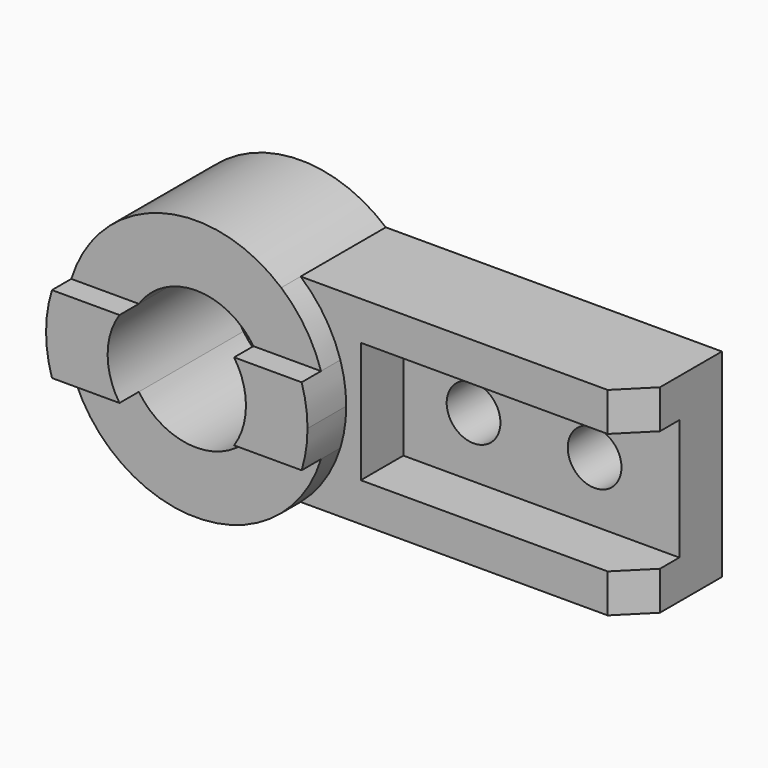
from build123d import *

# Parameters (mm, degrees)
F0_R     = 11.1
F1_DEPTH = 44
F2_DEPTH = 64
F4_W     = 22
F4_H     = 50
F5_DEPTH = 114
F6_DEPTH = 95.001
F8_DEPTH = 10


with BuildPart() as f1:
    # F0 (on Front) → F1 (new body)
    with BuildSketch(Plane.XZ):
        with BuildLine():
            ThreePointArc((51.5751878329, 57), (53.3903556037, 49.0913489921), (54, 41))
            ThreePointArc((54, 41), (53.3903556037, 32.9086510079), (51.5751878329, 25))
            ThreePointArc((51.5751878329, 25), (45.1247409006, 11.3392893097), (35.1425667816, 0))
            Line((35.1425667816, 0), (174, 0))
            Line((174, 0), (174, 82))
            Line((174, 82), (35.1425667816, 82))
            ThreePointArc((35.1425667816, 82), (45.1247409006, 70.6607106903), (51.5751878329, 57))
        make_face()
        with Locations((89, 41)):
            Circle(F0_R, mode=Mode.SUBTRACT)
        with Locations((139, 41)):
            Circle(F0_R, mode=Mode.SUBTRACT)
    extrude(amount=F1_DEPTH)

    # F0 (on Front) → F2 (join)
    with BuildSketch(Plane.XZ):
        with BuildLine():
            Line((35.1425667816, 57), (35.1425667816, 82))
            ThreePointArc((35.1425667816, 82), (-14.9585346426, 92.8868214612), (-51.5751878329, 57))
            Line((-51.5751878329, 57), (-23.6755279772, 57))
            ThreePointArc((-23.6755279772, 57), (0, 69.575), (23.6755279772, 57))
            Line((23.6755279772, 57), (35.1425667816, 57))
        make_face()
        with BuildLine():
            Line((35.1425667816, 25), (35.1425667816, 57))
            Line((35.1425667816, 57), (23.6755279772, 57))
            ThreePointArc((23.6755279772, 57), (27.3226905424, 49.3666723687), (28.575, 41))
            ThreePointArc((28.575, 41), (27.3226905424, 32.6333276313), (23.6755279772, 25))
            Line((23.6755279772, 25), (35.1425667816, 25))
        make_face()
        with BuildLine():
            ThreePointArc((-51.5751878329, 25), (-14.9585346426, -10.8868214612), (35.1425667816, 0))
            Line((35.1425667816, 0), (35.1425667816, 25))
            Line((35.1425667816, 25), (23.6755279772, 25))
            ThreePointArc((23.6755279772, 25), (0, 12.425), (-23.6755279772, 25))
            Line((-23.6755279772, 25), (-51.5751878329, 25))
        make_face()
        with BuildLine():
            Line((35.1425667816, 57), (51.5751878329, 57))
            ThreePointArc((51.5751878329, 57), (45.1247409006, 70.6607106903), (35.1425667816, 82))
            Line((35.1425667816, 82), (35.1425667816, 57))
        make_face()
        with BuildLine():
            ThreePointArc((51.5751878329, 25), (53.3903556037, 32.9086510079), (54, 41))
            ThreePointArc((54, 41), (53.3903556037, 49.0913489921), (51.5751878329, 57))
            Line((51.5751878329, 57), (35.1425667816, 57))
            Line((35.1425667816, 57), (35.1425667816, 25))
            Line((35.1425667816, 25), (51.5751878329, 25))
        make_face()
        with BuildLine():
            ThreePointArc((35.1425667816, 0), (45.1247409006, 11.3392893097), (51.5751878329, 25))
            Line((51.5751878329, 25), (35.1425667816, 25))
            Line((35.1425667816, 25), (35.1425667816, 0))
        make_face()
        with BuildLine():
            ThreePointArc((51.5751878329, 25), (53.3903556037, 32.9086510079), (54, 41))
            ThreePointArc((54, 41), (53.3903556037, 49.0913489921), (51.5751878329, 57))
            Line((51.5751878329, 57), (35.1425667816, 57))
            Line((35.1425667816, 57), (35.1425667816, 25))
            Line((35.1425667816, 25), (51.5751878329, 25))
        make_face()
        with BuildLine():
            Line((35.1425667816, 25), (35.1425667816, 57))
            Line((35.1425667816, 57), (23.6755279772, 57))
            ThreePointArc((23.6755279772, 57), (27.3226905424, 49.3666723687), (28.575, 41))
            ThreePointArc((28.575, 41), (27.3226905424, 32.6333276313), (23.6755279772, 25))
            Line((23.6755279772, 25), (35.1425667816, 25))
        make_face()
        with BuildLine():
            Line((-23.6755279772, 57), (-51.5751878329, 57))
            ThreePointArc((-51.5751878329, 57), (-54, 41), (-51.5751878329, 25))
            Line((-51.5751878329, 25), (-23.6755279772, 25))
            ThreePointArc((-23.6755279772, 25), (-28.575, 41), (-23.6755279772, 57))
        make_face()
        with BuildLine():
            ThreePointArc((-51.5751878329, 25), (-14.9585346426, -10.8868214612), (35.1425667816, 0))
            Line((35.1425667816, 0), (35.1425667816, 25))
            Line((35.1425667816, 25), (23.6755279772, 25))
            ThreePointArc((23.6755279772, 25), (0, 12.425), (-23.6755279772, 25))
            Line((-23.6755279772, 25), (-51.5751878329, 25))
        make_face()
    extrude(amount=F2_DEPTH)

    # F4 (on face) → F5 (cut)
    with BuildSketch(Plane.YZ.offset(174)):
        with Locations((-33, 41)):
            Rectangle(F4_W, F4_H)
    extrude(amount=-F5_DEPTH, mode=Mode.SUBTRACT)

    # F3 (on face) → F6 (cut, through all)
    with BuildSketch(Plane.XY.offset(82)):
        Polygon((174, -44), (174, -32), (162, -44), align=None)
    extrude(amount=-F6_DEPTH, mode=Mode.SUBTRACT)

    # F7 (on face) → F8 (cut)
    with BuildSketch(Plane.XZ.offset(64)):
        with BuildLine():
            ThreePointArc((51.5751878329, 57), (0, 95), (-51.5751878329, 57))
            Line((-51.5751878329, 57), (-23.6755279772, 57))
            ThreePointArc((-23.6755279772, 57), (0, 69.575), (23.6755279772, 57))
            Line((23.6755279772, 57), (51.5751878329, 57))
        make_face()
        with BuildLine():
            Line((-23.6755279772, 25), (-51.5751878329, 25))
            ThreePointArc((-51.5751878329, 25), (0, -13), (51.5751878329, 25))
            Line((51.5751878329, 25), (23.6755279772, 25))
            ThreePointArc((23.6755279772, 25), (0, 12.425), (-23.6755279772, 25))
        make_face()
    extrude(amount=-F8_DEPTH, mode=Mode.SUBTRACT)


solid = f1.part
